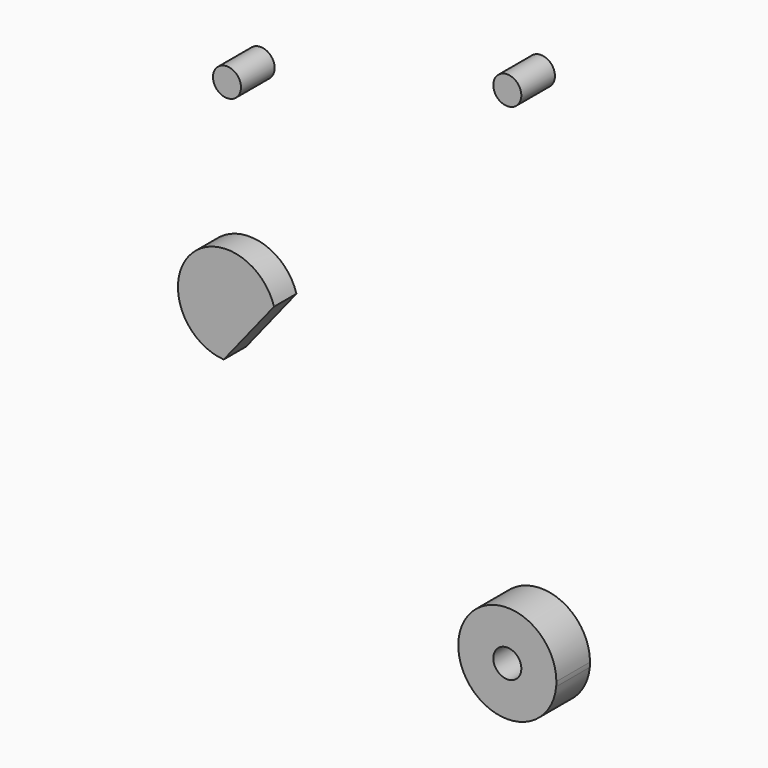
from build123d import *

# Parameters (mm, degrees)
F0_R     = 3.175
F0_R_2   = 3.9751
F1_DEPTH = 3.175
F2_DEPTH = 3.175
F7_DEPTH = 9.525


with BuildPart() as f1:
    # F0 (on Front) → F1 (new body)
    with BuildSketch(Plane.XZ):
        with BuildLine():
            ThreePointArc((-1.190625, 15.830289), (10.351805, 12.035603), (15.830289, 1.190625))
            Line((15.830289, 1.190625), (11.081202, 64.333438))
            ThreePointArc((11.081202, 64.333438), (11.104673, 63.917012), (11.1125, 63.5))
            ThreePointArc((11.1125, 63.5), (-7.571892, 55.366483), (-0.79375, 74.584116))
            Line((-0.79375, 74.584116), (-45.016964, 71.417225))
            ThreePointArc((-45.016964, 71.417225), (-39.041505, 69.309655), (-36.5125, 63.5))
            ThreePointArc((-36.5125, 63.5), (-39.041505, 57.690345), (-45.016964, 55.582775))
            Line((-45.016964, 55.582775), (-19.875971, 53.782391))
            ThreePointArc((-19.875971, 53.782391), (-14.425704, 51.047466), (-12.516034, 45.256233))
            Line((-12.516034, 45.256233), (-14.806234, 14.806234))
            Line((-14.806234, 14.806234), (-1.190625, 15.830289))
        make_face()
        with BuildLine():
            ThreePointArc((-36.5125, 63.5), (-39.041505, 69.309655), (-45.016964, 71.417225))
            ThreePointArc((-45.016964, 71.417225), (-52.3875, 63.5), (-45.016964, 55.582775))
            ThreePointArc((-45.016964, 55.582775), (-39.041505, 57.690345), (-36.5125, 63.5))
        make_face()
        with Locations((-44.45, 63.5)):
            Circle(F0_R, mode=Mode.SUBTRACT)
        with BuildLine():
            ThreePointArc((11.1125, 63.5), (11.104673, 63.917012), (11.081202, 64.333438))
            ThreePointArc((11.081202, 64.333438), (7.261337, 71.911934), (-0.79375, 74.584116))
            ThreePointArc((-0.79375, 74.584116), (-7.571892, 55.366483), (11.1125, 63.5))
        make_face()
        with Locations((0, 63.5)):
            Circle(F0_R, mode=Mode.SUBTRACT)
        with BuildLine():
            ThreePointArc((-15.805083, -1.488281), (-15.874297, -0.149361), (-15.830289, 1.190625))
            Line((-15.830289, 1.190625), (-14.806234, 14.806234))
            Line((-14.806234, 14.806234), (-45.256233, 12.516034))
            ThreePointArc((-45.256233, 12.516034), (-51.047466, 14.425704), (-53.782391, 19.875971))
            Line((-53.782391, 19.875971), (-55.582775, 45.016964))
            ThreePointArc((-55.582775, 45.016964), (-55.56757, 44.733663), (-55.5625, 44.45))
            ThreePointArc((-55.5625, 44.45), (-63.783663, 36.51757), (-71.417225, 45.016964))
            Line((-71.417225, 45.016964), (-74.584116, 0.79375))
            ThreePointArc((-74.584116, 0.79375), (-63.102871, 11.105402), (-52.3875, 0))
            ThreePointArc((-52.3875, 0), (-55.942683, -8.147062), (-64.333438, -11.081202))
            Line((-64.333438, -11.081202), (-14.549181, -14.825567))
            Line((-14.549181, -14.825567), (-15.805083, -1.488281))
        make_face()
        with Locations((-42.8498, 0)):
            Circle(F0_R, mode=Mode.SUBTRACT)
        with BuildLine():
            ThreePointArc((15.805083, -1.488281), (15.857511, -0.744961), (15.875, 0))
            ThreePointArc((15.875, 0), (15.863818, 0.595732), (15.830289, 1.190625))
            ThreePointArc((15.830289, 1.190625), (10.351805, 12.035603), (-1.190625, 15.830289))
            ThreePointArc((-1.190625, 15.830289), (-11.22532, 11.22532), (-15.830289, 1.190625))
            ThreePointArc((-15.830289, 1.190625), (-15.874297, -0.149361), (-15.805083, -1.488281))
            ThreePointArc((-15.805083, -1.488281), (-11.119209, -11.330437), (-1.190625, -15.830289))
            ThreePointArc((-1.190625, -15.830289), (10.23811, -12.132466), (15.805083, -1.488281))
        make_face()
        Circle(F0_R_2, mode=Mode.SUBTRACT)
        with BuildLine():
            Line((11.063558, -51.841797), (15.805083, -1.488281))
            ThreePointArc((15.805083, -1.488281), (10.23811, -12.132466), (-1.190625, -15.830289))
            Line((-1.190625, -15.830289), (-14.549181, -14.825567))
            Line((-14.549181, -14.825567), (-11.063558, -51.841797))
            ThreePointArc((-11.063558, -51.841797), (-0.521473, -39.699742), (11.1125, -50.8))
            ThreePointArc((11.1125, -50.8), (11.100258, -51.321473), (11.063558, -51.841797))
        make_face()
        with Locations((3.175, -36.386943)):
            Circle(F0_R, mode=Mode.SUBTRACT)
        with BuildLine():
            Line((11.063558, -51.841797), (15.805083, -1.488281))
            ThreePointArc((15.805083, -1.488281), (10.23811, -12.132466), (-1.190625, -15.830289))
            Line((-1.190625, -15.830289), (-14.549181, -14.825567))
            Line((-14.549181, -14.825567), (-11.063558, -51.841797))
            ThreePointArc((-11.063558, -51.841797), (-0.521473, -39.699742), (11.1125, -50.8))
            ThreePointArc((11.1125, -50.8), (11.100258, -51.321473), (11.063558, -51.841797))
        make_face()
        with Locations((3.175, -36.386943)):
            Circle(F0_R, mode=Mode.SUBTRACT)
        with BuildLine():
            ThreePointArc((-11.063558, -51.841797), (0, -61.9125), (11.063558, -51.841797))
            ThreePointArc((11.063558, -51.841797), (11.100258, -51.321473), (11.1125, -50.8))
            ThreePointArc((11.1125, -50.8), (-0.521473, -39.699742), (-11.063558, -51.841797))
        make_face()
        with Locations((0, -50.8)):
            Circle(F0_R, mode=Mode.SUBTRACT)
        Circle(F0_R_2)
        Circle(F0_R, mode=Mode.SUBTRACT)
    extrude(amount=-F1_DEPTH)


with BuildPart() as f2:
    # F0 (on Front) → F2 (new body)
    with BuildSketch(Plane.XZ):
        with BuildLine():
            ThreePointArc((-15.805083, -1.488281), (-15.874297, -0.149361), (-15.830289, 1.190625))
            Line((-15.830289, 1.190625), (-14.806234, 14.806234))
            Line((-14.806234, 14.806234), (-45.256233, 12.516034))
            ThreePointArc((-45.256233, 12.516034), (-51.047466, 14.425704), (-53.782391, 19.875971))
            Line((-53.782391, 19.875971), (-55.582775, 45.016964))
            ThreePointArc((-55.582775, 45.016964), (-55.56757, 44.733663), (-55.5625, 44.45))
            ThreePointArc((-55.5625, 44.45), (-63.783663, 36.51757), (-71.417225, 45.016964))
            Line((-71.417225, 45.016964), (-74.584116, 0.79375))
            ThreePointArc((-74.584116, 0.79375), (-63.102871, 11.105402), (-52.3875, 0))
            ThreePointArc((-52.3875, 0), (-55.942683, -8.147062), (-64.333438, -11.081202))
            Line((-64.333438, -11.081202), (-14.549181, -14.825567))
            Line((-14.549181, -14.825567), (-15.805083, -1.488281))
        make_face()
        with Locations((-42.8498, 0)):
            Circle(F0_R, mode=Mode.SUBTRACT)
        with BuildLine():
            ThreePointArc((-55.5625, 44.45), (-55.56757, 44.733663), (-55.582775, 45.016964))
            ThreePointArc((-55.582775, 45.016964), (-63.5, 52.3875), (-71.417225, 45.016964))
            ThreePointArc((-71.417225, 45.016964), (-63.783663, 36.51757), (-55.5625, 44.45))
        make_face()
        with Locations((-63.5, 44.45)):
            Circle(F0_R, mode=Mode.SUBTRACT)
        with BuildLine():
            ThreePointArc((-74.584116, 0.79375), (-71.911934, -7.261337), (-64.333438, -11.081202))
            ThreePointArc((-64.333438, -11.081202), (-55.942683, -8.147062), (-52.3875, 0))
            ThreePointArc((-52.3875, 0), (-63.102871, 11.105402), (-74.584116, 0.79375))
        make_face()
        with Locations((-63.5, 0)):
            Circle(F0_R, mode=Mode.SUBTRACT)
        with BuildLine():
            ThreePointArc((-15.805083, -1.488281), (-15.874297, -0.149361), (-15.830289, 1.190625))
            Line((-15.830289, 1.190625), (-14.806234, 14.806234))
            Line((-14.806234, 14.806234), (-45.256233, 12.516034))
            ThreePointArc((-45.256233, 12.516034), (-51.047466, 14.425704), (-53.782391, 19.875971))
            Line((-53.782391, 19.875971), (-55.582775, 45.016964))
            ThreePointArc((-55.582775, 45.016964), (-55.56757, 44.733663), (-55.5625, 44.45))
            ThreePointArc((-55.5625, 44.45), (-63.783663, 36.51757), (-71.417225, 45.016964))
            Line((-71.417225, 45.016964), (-74.584116, 0.79375))
            ThreePointArc((-74.584116, 0.79375), (-63.102871, 11.105402), (-52.3875, 0))
            ThreePointArc((-52.3875, 0), (-55.942683, -8.147062), (-64.333438, -11.081202))
            Line((-64.333438, -11.081202), (-14.549181, -14.825567))
            Line((-14.549181, -14.825567), (-15.805083, -1.488281))
        make_face()
        with Locations((-42.8498, 0)):
            Circle(F0_R, mode=Mode.SUBTRACT)
        with BuildLine():
            ThreePointArc((15.805083, -1.488281), (15.857511, -0.744961), (15.875, 0))
            ThreePointArc((15.875, 0), (15.863818, 0.595732), (15.830289, 1.190625))
            ThreePointArc((15.830289, 1.190625), (10.351805, 12.035603), (-1.190625, 15.830289))
            ThreePointArc((-1.190625, 15.830289), (-11.22532, 11.22532), (-15.830289, 1.190625))
            ThreePointArc((-15.830289, 1.190625), (-15.874297, -0.149361), (-15.805083, -1.488281))
            ThreePointArc((-15.805083, -1.488281), (-11.119209, -11.330437), (-1.190625, -15.830289))
            ThreePointArc((-1.190625, -15.830289), (10.23811, -12.132466), (15.805083, -1.488281))
        make_face()
        Circle(F0_R_2, mode=Mode.SUBTRACT)
        with BuildLine():
            Line((11.063558, -51.841797), (15.805083, -1.488281))
            ThreePointArc((15.805083, -1.488281), (10.23811, -12.132466), (-1.190625, -15.830289))
            Line((-1.190625, -15.830289), (-14.549181, -14.825567))
            Line((-14.549181, -14.825567), (-11.063558, -51.841797))
            ThreePointArc((-11.063558, -51.841797), (-0.521473, -39.699742), (11.1125, -50.8))
            ThreePointArc((11.1125, -50.8), (11.100258, -51.321473), (11.063558, -51.841797))
        make_face()
        with Locations((3.175, -36.386943)):
            Circle(F0_R, mode=Mode.SUBTRACT)
        Circle(F0_R_2)
        Circle(F0_R, mode=Mode.SUBTRACT)
    extrude(amount=F2_DEPTH)


with BuildPart() as f7:
    # F6 (on face) + F0 (on Front) → F7 (new body, through all)
    with BuildSketch(Plane.XZ):
        with BuildLine():
            Line((-64.238385, -11.087941), (-52.844581, 3.154314))
            ThreePointArc((-52.844581, 3.154314), (-64.699588, 11.047563), (-74.584116, 0.79375))
            ThreePointArc((-74.584116, 0.79375), (-71.911934, -7.261337), (-64.333438, -11.081202))
            ThreePointArc((-64.333438, -11.081202), (-64.285919, -11.084674), (-64.238385, -11.087941))
        make_face()
    with BuildSketch(Plane.XZ):
        with BuildLine():
            ThreePointArc((-11.063558, -51.841797), (0, -61.9125), (11.063558, -51.841797))
            ThreePointArc((11.063558, -51.841797), (11.100258, -51.321473), (11.1125, -50.8))
            ThreePointArc((11.1125, -50.8), (-0.521473, -39.699742), (-11.063558, -51.841797))
        make_face()
        with Locations((0, -50.8)):
            Circle(F0_R, mode=Mode.SUBTRACT)
        with Locations((0, 63.5)):
            Circle(F0_R)
        with Locations((-63.5, 44.45)):
            Circle(F0_R)
    extrude(amount=F7_DEPTH)

    # F8: cut F2, F1
    add(f2.part, mode=Mode.SUBTRACT)
    add(f1.part, mode=Mode.SUBTRACT)


solid = f7.part
